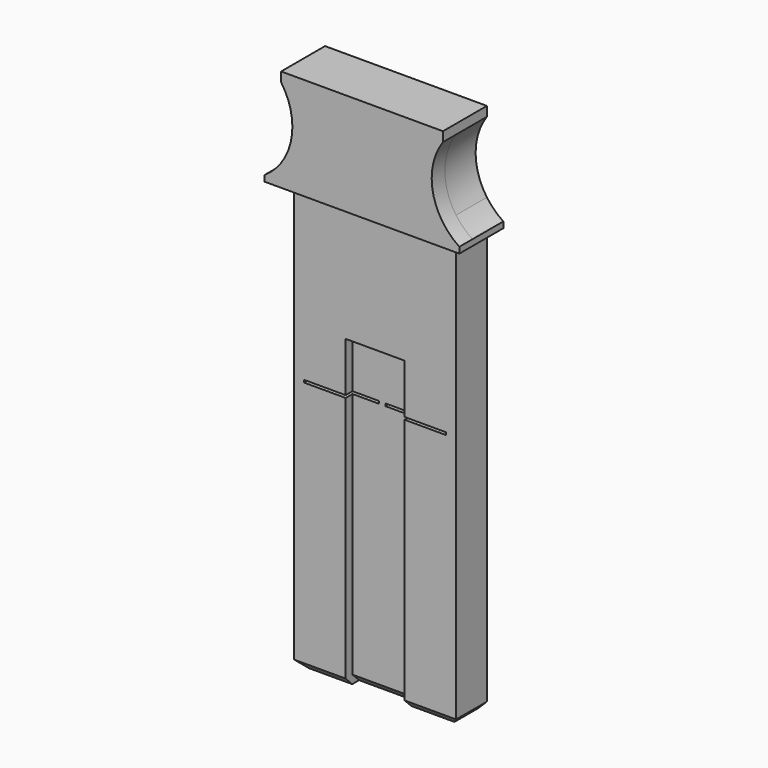
from build123d import *

# Parameters (mm, degrees)
F0_W     = 1.2
F0_H     = 0.3
F1_DEPTH = 4.7
F3_DEPTH = 1.05
F6_DEPTH = 2
F7_SIZE  = 1


with BuildPart() as f1:
    # F0 (on Front) → F1 (new body)
    with BuildSketch(Plane.XZ):
        with BuildLine():
            Line((0, 31.15), (0, 0))
            Line((0, 0), (19.75, 0))
            Line((19.75, 0), (19.75, 31.15))
            Line((19.75, 31.15), (18.55, 31.15))
            Line((18.55, 31.15), (10.275, 31.15))
            Line((10.275, 31.15), (10.275, 31.45))
            Line((10.275, 31.45), (18.55, 31.45))
            Line((18.55, 31.45), (19.75, 31.45))
            Line((19.75, 31.45), (19.75, 52.5))
            Line((19.75, 52.5), (19.75, 55.1716775767))
            ThreePointArc((19.75, 55.1716775767), (18.375, 59.5), (19.75, 63.8283224233))
            Line((19.75, 63.8283224233), (19.75, 65))
            Line((19.75, 65), (0, 65))
            Line((0, 65), (0, 63.8283224233))
            ThreePointArc((0, 63.8283224233), (1.0229892277, 61.7707377656), (1.375, 59.5))
            ThreePointArc((1.375, 59.5), (1.0229892277, 57.2292622344), (0, 55.1716775767))
            Line((0, 55.1716775767), (0, 52.5))
            Line((0, 52.5), (0, 31.45))
            Line((0, 31.45), (1.2, 31.45))
            Line((1.2, 31.45), (9.475, 31.45))
            Line((9.475, 31.45), (9.475, 31.15))
            Line((9.475, 31.15), (1.2, 31.15))
            Line((1.2, 31.15), (0, 31.15))
        make_face()
        with BuildLine():
            Line((-2, 52.5), (0, 52.5))
            Line((0, 52.5), (0, 55.1716775767))
            ThreePointArc((0, 55.1716775767), (-0.9094386331, 54.1103878035), (-2, 53.2362650918))
            Line((-2, 53.2362650918), (-2, 52.5))
        make_face()
        with BuildLine():
            Line((19.75, 55.1716775767), (19.75, 52.5))
            Line((19.75, 52.5), (21.75, 52.5))
            Line((21.75, 52.5), (21.75, 53.2362650918))
            ThreePointArc((21.75, 53.2362650918), (20.6594386331, 54.1103878035), (19.75, 55.1716775767))
        make_face()
        with Locations((0.6, 31.3)):
            Rectangle(F0_W, F0_H)
        with Locations((19.15, 31.3)):
            Rectangle(F0_W, F0_H)
    extrude(amount=F1_DEPTH)

    # F2 (on face) → F3 (cut)
    with BuildSketch(Plane.XZ.offset(4.7)):
        Polygon((13.475, 37.5), (6.275, 37.5), (6.275, 2.2), (6.275, 0), (13.475, 0), (13.475, 2.2), align=None)
    extrude(amount=-F3_DEPTH, mode=Mode.SUBTRACT)

    # F5 (on face) → F6 (join)
    with BuildSketch(Plane.XZ.offset(4.7)):
        with BuildLine():
            Line((-2, 52.5), (0, 52.5))
            Line((0, 52.5), (19.75, 52.5))
            Line((19.75, 52.5), (21.75, 52.5))
            Line((21.75, 52.5), (21.75, 53.2362650918))
            ThreePointArc((21.75, 53.2362650918), (18.5052276407, 58.1084342015), (19.75, 63.8283224233))
            Line((19.75, 63.8283224233), (19.75, 65))
            Line((19.75, 65), (0, 65))
            Line((0, 65), (0, 63.8283224233))
            ThreePointArc((0, 63.8283224233), (1.2447723593, 58.1084342015), (-2, 53.2362650918))
            Line((-2, 53.2362650918), (-2, 52.5))
        make_face()
    extrude(amount=F6_DEPTH)

    # F7
    f7_edges = [f1.edges().sort_by_distance(p)[0] for p in [
        (0, -2.35, 0),
        (19.75, -2.35, 0),
        (3.1375, -4.7, 0),
        (16.6125, -4.7, 0),
        (9.875, -3.65, 0),
    ]]
    chamfer(f7_edges, length=F7_SIZE)


solid = f1.part
